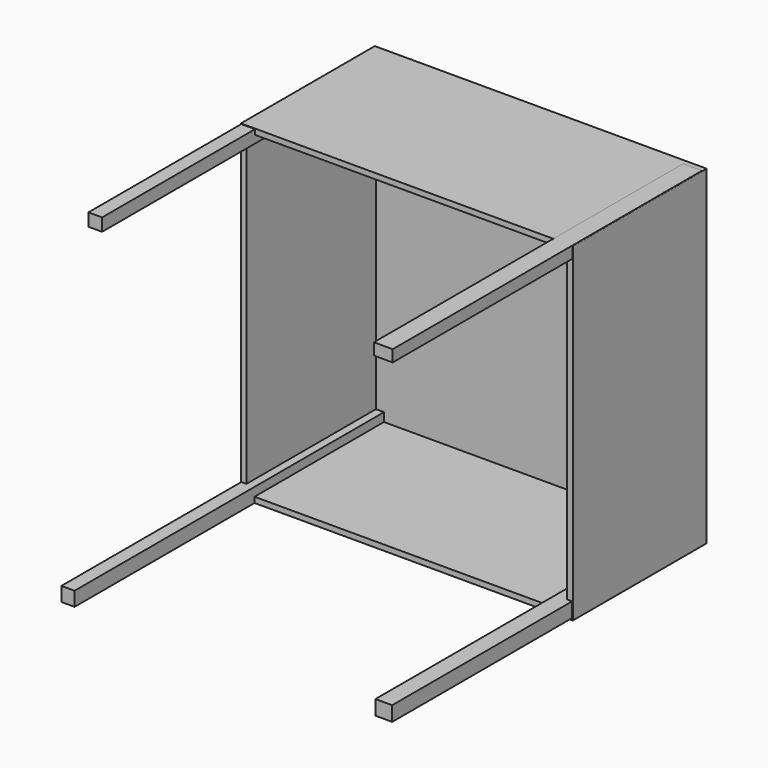
from build123d import *

# Parameters (mm, degrees)
F0_W     = 152.112037
F0_H     = 151.181682
F1_DEPTH = 76.708
F2_T     = -2.54
F3_W     = 6.279856
F3_H     = 5.814679
F4_DEPTH = 161.798
F6_W     = 7.675372
F6_H     = 6.745033
F5_W     = 6.047272
F5_H     = 6.51244
F7_W     = 8.605727
F7_H     = 5.349502
F8_DEPTH = 177.292


with BuildPart() as f1:
    # F0 (on Front) → F1 (new body)
    with BuildSketch(Plane.XZ):
        with Locations((-0.232585, 0.465177)):
            Rectangle(F0_W, F0_H)
    extrude(amount=F1_DEPTH)

    # F2
    f2_openings = [f1.faces().sort_by_distance(p)[0] for p in [
        (-0.232585, -76.708, 0.465177),
    ]]
    offset(amount=F2_T, openings=f2_openings)

    # F3 (on face) → F4 (join)
    with BuildSketch(Plane.XZ.offset(2.54)):
        with Locations((-72.960392, 72.916087)):
            Rectangle(F3_W, F3_H)
    extrude(amount=F4_DEPTH)

    # F6 (on face) + F5 (on face) + F7 (on face) → F8 (join)
    with BuildSketch(Plane.XZ.offset(2.54)):
        with Locations((71.708854, -70.822808)):
            Rectangle(F6_W, F6_H)
    with BuildSketch(Plane.XZ.offset(2.54)):
        with Locations((-73.076684, -71.869444)):
            Rectangle(F5_W, F5_H)
    with BuildSketch(Plane.XZ.offset(2.54)):
        with Locations((71.47627, 73.613852)):
            Rectangle(F7_W, F7_H)
    extrude(amount=F8_DEPTH)


solid = f1.part
